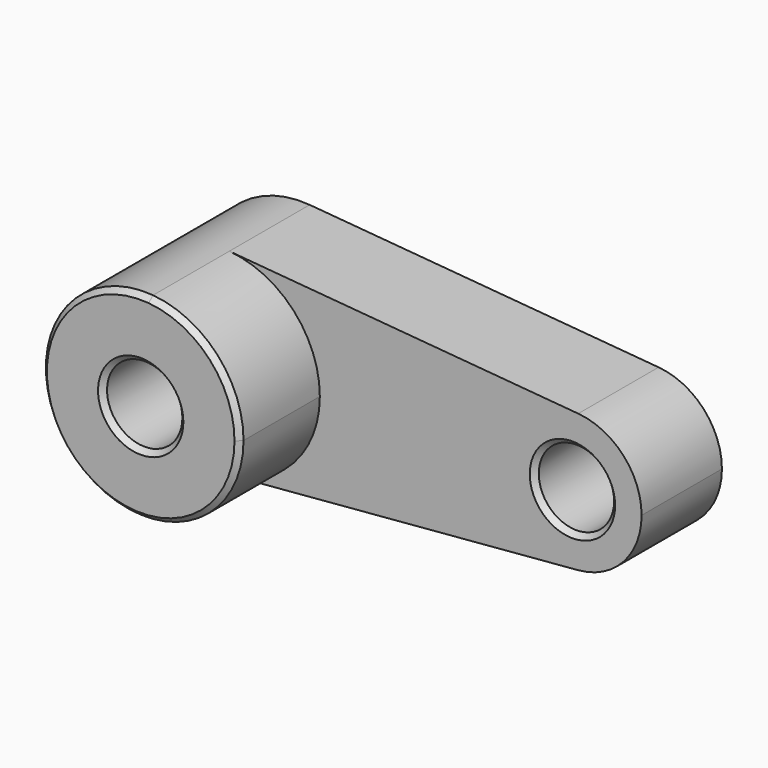
from build123d import *

# Parameters (mm, degrees)
F0_R     = 9.525
F1_DEPTH = 25.4
F2_DEPTH = 50.8
F3_SIZE  = 1.27


with BuildPart() as f1:
    # F0 (on Front) → F1 (new body)
    with BuildSketch(Plane.XZ):
        with BuildLine():
            ThreePointArc((90.376378, -17.437612), (101.785779, -11.840891), (106.4, 0))
            ThreePointArc((106.4, 0), (101.785779, 11.840891), (90.376378, 17.437612))
            ThreePointArc((90.376378, 17.437612), (71.4, 0), (90.376378, -17.437612))
        make_face()
        with Locations((88.9, 0)):
            Circle(F0_R, mode=Mode.SUBTRACT)
        with BuildLine():
            ThreePointArc((90.376378, -17.437612), (71.4, 0), (90.376378, 17.437612))
            Line((90.376378, 17.437612), (2.109111, 24.910874))
            ThreePointArc((2.109111, 24.910874), (18.408256, 16.915558), (25, 0))
            ThreePointArc((25, 0), (18.408256, -16.915558), (2.109111, -24.910874))
            Line((2.109111, -24.910874), (90.376378, -17.437612))
        make_face()
        with BuildLine():
            ThreePointArc((25, 0), (18.408256, 16.915558), (2.109111, 24.910874))
            ThreePointArc((2.109111, 24.910874), (-25, 0), (2.109111, -24.910874))
            ThreePointArc((2.109111, -24.910874), (18.408256, -16.915558), (25, 0))
        make_face()
        Circle(F0_R, mode=Mode.SUBTRACT)
    extrude(amount=F1_DEPTH)

    # F0 (on Front) → F2 (join)
    with BuildSketch(Plane.XZ):
        with BuildLine():
            ThreePointArc((25, 0), (18.408256, 16.915558), (2.109111, 24.910874))
            ThreePointArc((2.109111, 24.910874), (-25, 0), (2.109111, -24.910874))
            ThreePointArc((2.109111, -24.910874), (18.408256, -16.915558), (25, 0))
        make_face()
        Circle(F0_R, mode=Mode.SUBTRACT)
    extrude(amount=F2_DEPTH)

    # F3
    f3_edges = [f1.edges().sort_by_distance(p)[0] for p in [
        (-9.525, -50.8, 0),
        (-2.109111, -50.8, 24.910874),
        (79.375, -25.4, 0),
    ]]
    chamfer(f3_edges, length=F3_SIZE)


solid = f1.part
